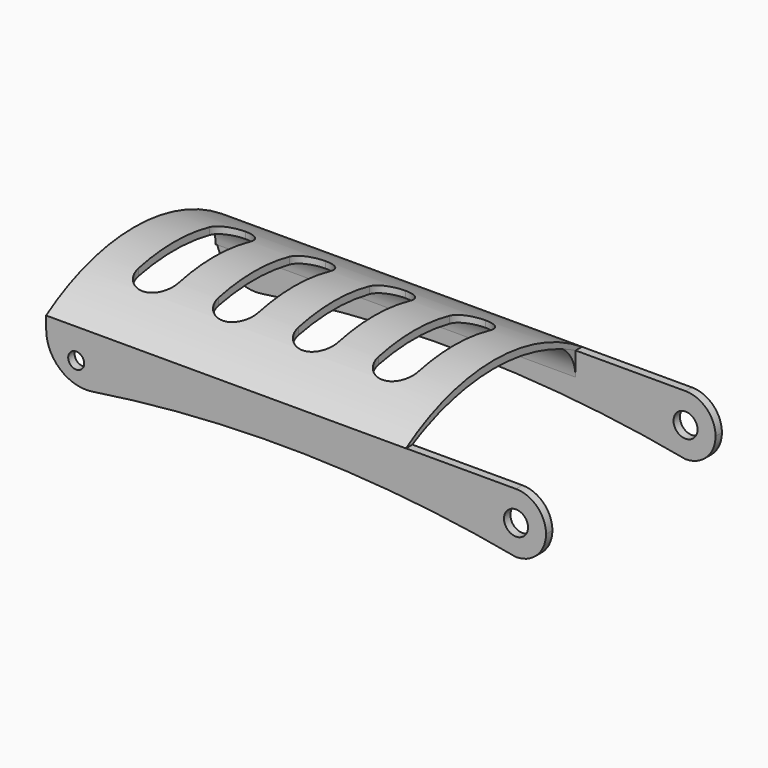
from build123d import *

# Parameters (mm, degrees)
F0_W      = 250
F0_H      = 4
F1_DEPTH  = 30
F3_DEPTH  = 144.6
F5_DEPTH  = 180
F7_DEPTH  = 70.6
F8_R      = 20
F9_R      = 4
F10_DEPTH = 169.5
F11_R     = 6
F12_DEPTH = 143.3
F13_DEPTH = 180


with BuildPart() as f1:
    # F0 (on Top) → F1 (new body)
    with BuildSketch(Plane.XY):
        with Locations((0, 82.40542)):
            Rectangle(F0_W, F0_H)
        with Locations((0, -23.59458)):
            Rectangle(F0_W, F0_H)
    extrude(amount=F1_DEPTH)

    # F2 (on face) → F3 (cut)
    with BuildSketch(Plane.XZ.offset(25.59458)):
        with BuildLine():
            Line((-125, 0), (110, 0))
            ThreePointArc((110, 0), (-7.5, 11.087038), (-125, 0))
        make_face()
        with BuildLine():
            ThreePointArc((110, 30), (120.606602, 25.606602), (125, 15))
            Line((125, 15), (125, 30))
            Line((125, 30), (110, 30))
        make_face()
        with BuildLine():
            ThreePointArc((125, 15), (120.606602, 4.393398), (110, 0))
            Line((110, 0), (125, 0))
            Line((125, 0), (125, 15))
        make_face()
    extrude(amount=-F3_DEPTH, mode=Mode.SUBTRACT)

    # F8
    f8_edges = [f1.edges().sort_by_distance(p)[0] for p in [
        (-125, 82.40542, 0),
        (-125, -23.59458, 0),
    ]]
    fillet(f8_edges, radius=F8_R)

    # F9 (on face) → F10 (cut)
    with BuildSketch(Plane.XZ.offset(25.59458)):
        with Locations((-110, 15)):
            Circle(F9_R)
    extrude(amount=-F10_DEPTH, mode=Mode.SUBTRACT)

    # F11 (on face) → F12 (cut)
    with BuildSketch(Plane.XZ.offset(25.59458)):
        with Locations((110, 15)):
            Circle(F11_R)
    extrude(amount=-F12_DEPTH, mode=Mode.SUBTRACT)


with BuildPart() as f5:
    # F4 (on face) → F5 (new body)
    with BuildSketch(Plane(origin=(-125, 0, 0), x_dir=(0, -1, 0), z_dir=(-1, 0, 0))):
        with BuildLine():
            ThreePointArc((13.59458, 33.912573), (17.678256, 32.040391), (21.680539, 30))
            Line((21.680539, 30), (25.678005, 30))
            ThreePointArc((25.678005, 30), (-29.363707, 46.511019), (-84.40542, 30))
            Line((-84.40542, 30), (-80.40542, 30))
            ThreePointArc((-80.40542, 30), (-76.445307, 32.019974), (-72.40542, 33.875264))
            ThreePointArc((-72.40542, 33.875264), (-29.409293, 42.823237), (13.59458, 33.912573))
        make_face()
    extrude(amount=-F5_DEPTH)

    # F6 (on Top) → F7 (cut)
    with BuildSketch(Plane.XY):
        with BuildLine():
            ThreePointArc((-95, 61.592424), (-102.071068, 58.663492), (-105, 51.592424))
            Line((-105, 51.592424), (-105, 7.131995))
            ThreePointArc((-105, 7.131995), (-102.071068, 0.060927), (-95, -2.868005))
            ThreePointArc((-95, -2.868005), (-87.928932, 0.060927), (-85, 7.131995))
            Line((-85, 7.131995), (-85, 51.592424))
            ThreePointArc((-85, 51.592424), (-87.928932, 58.663492), (-95, 61.592424))
        make_face()
        with BuildLine():
            ThreePointArc((-55, 61.67542), (-62.071068, 58.746487), (-65, 51.67542))
            Line((-65, 51.67542), (-65, 7.21542))
            ThreePointArc((-65, 7.21542), (-62.071068, 0.144352), (-55, -2.78458))
            ThreePointArc((-55, -2.78458), (-47.928932, 0.144352), (-45, 7.21542))
            Line((-45, 7.21542), (-45, 51.67542))
            ThreePointArc((-45, 51.67542), (-47.928932, 58.746487), (-55, 61.67542))
        make_face()
        with BuildLine():
            ThreePointArc((-15, 61.591995), (-22.071068, 58.663063), (-25, 51.591995))
            Line((-25, 51.591995), (-25, 7.131995))
            ThreePointArc((-25, 7.131995), (-22.071068, 0.060927), (-15, -2.868005))
            ThreePointArc((-15, -2.868005), (-7.928932, 0.060927), (-5, 7.131995))
            Line((-5, 7.131995), (-5, 51.591995))
            ThreePointArc((-5, 51.591995), (-7.928932, 58.663063), (-15, 61.591995))
        make_face()
        with BuildLine():
            ThreePointArc((25, 61.591995), (17.928932, 58.663063), (15, 51.591995))
            Line((15, 51.591995), (15, 7.131995))
            ThreePointArc((15, 7.131995), (17.928932, 0.060927), (25, -2.868005))
            ThreePointArc((25, -2.868005), (32.071068, 0.060927), (35, 7.131995))
            Line((35, 7.131995), (35, 51.591995))
            ThreePointArc((35, 51.591995), (32.071068, 58.663063), (25, 61.591995))
        make_face()
    extrude(amount=F7_DEPTH, mode=Mode.SUBTRACT)


with BuildPart() as f13:
    # F4 (on face) → F13 (new body)
    with BuildSketch(Plane(origin=(-125, 0, 0), x_dir=(0, -1, 0), z_dir=(-1, 0, 0))):
        with BuildLine():
            ThreePointArc((-80.40542, 18.228427), (-78.216015, 26.977576), (-72.40542, 33.875264))
            ThreePointArc((-72.40542, 33.875264), (-76.445307, 32.019974), (-80.40542, 30))
            Line((-80.40542, 30), (-80.40542, 18.228427))
        make_face()
    extrude(amount=-F13_DEPTH)


solid = Compound([f1.part, f5.part, f13.part])
